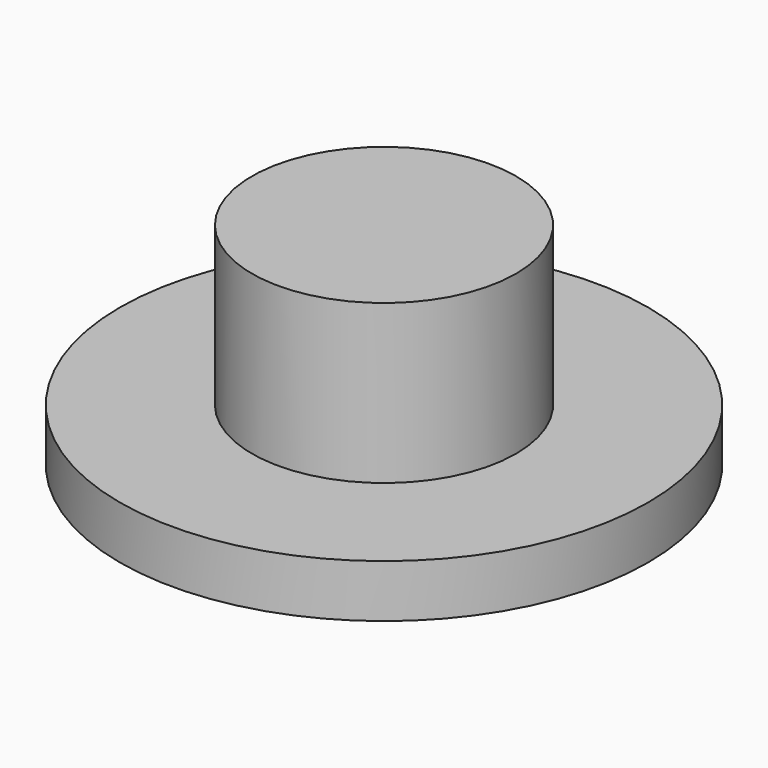
from build123d import *

# Parameters (mm, degrees)
F0_R          = 10
F0_R_2        = 5
F1_DEPTH      = 1
F1_DEPTH_BACK = 1
F2_DEPTH      = 7
F2_DEPTH_BACK = 1


with BuildPart() as f1:
    # F0 (on Top) → F1 (new body, two sides)
    with BuildSketch(Plane.XY) as f1_sk:
        Circle(F0_R)
        Circle(F0_R_2, mode=Mode.SUBTRACT)
    extrude(amount=F1_DEPTH)
    extrude(f1_sk.sketch, amount=-F1_DEPTH_BACK)

    # F0 (on Top) → F2 (join, two sides)
    with BuildSketch(Plane.XY) as f2_sk:
        Circle(F0_R_2)
    extrude(amount=F2_DEPTH)
    extrude(f2_sk.sketch, amount=-F2_DEPTH_BACK)


solid = f1.part
